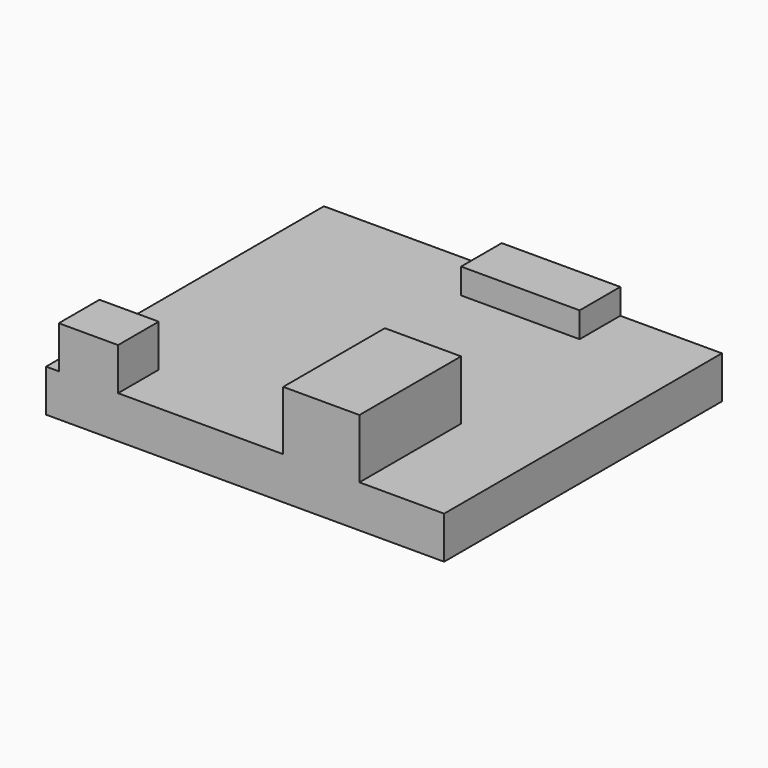
from build123d import *

# Parameters (mm, degrees)
SKETCH_W     = 47
SKETCH_H     = 41
PAD_DEPTH    = 1
SKETCH001_W  = 9
SKETCH001_H  = 15
PAD001_DEPTH = 11
SKETCH002_W  = 7
SKETCH002_H  = 6
PAD002_DEPTH = 9
SKETCH003_W  = 47
SKETCH003_H  = 41
PAD003_DEPTH = 4
SKETCH011_W  = 14
SKETCH011_H  = 7
PAD006_DEPTH = 6


with BuildPart() as part:
    # Sketch → Pad (new body)
    with BuildSketch(Plane.XY):
        Rectangle(SKETCH_W, SKETCH_H)
    extrude(amount=PAD_DEPTH)

    # Sketch001 (on Face6 of Pad) → Pad001 (join)
    with BuildSketch(Plane.XY.offset(1)):
        with Locations((9, -13)):
            Rectangle(SKETCH001_W, SKETCH001_H)
    extrude(amount=PAD001_DEPTH)

    # Sketch002 (on Face5 of Pad001) → Pad002 (join)
    with BuildSketch(Plane.XY.offset(1)):
        with Locations((-18.5, -17.5)):
            Rectangle(SKETCH002_W, SKETCH002_H)
    extrude(amount=PAD002_DEPTH)

    # Sketch003 (on Face5 of Pad002) → Pad003 (join)
    with BuildSketch(Plane.XY.offset(1)):
        Rectangle(SKETCH003_W, SKETCH003_H)
    extrude(amount=PAD003_DEPTH)

    # Sketch011 (on Face5 of Pad003) → Pad006 (join)
    with BuildSketch(Plane(origin=(0, 20.5, 0), x_dir=(-1, 0, 0), z_dir=(0, 1, 0))):
        with Locations((-4.5, 4.5)):
            Rectangle(SKETCH011_W, SKETCH011_H)
    extrude(amount=-PAD006_DEPTH)


solid = part.part
